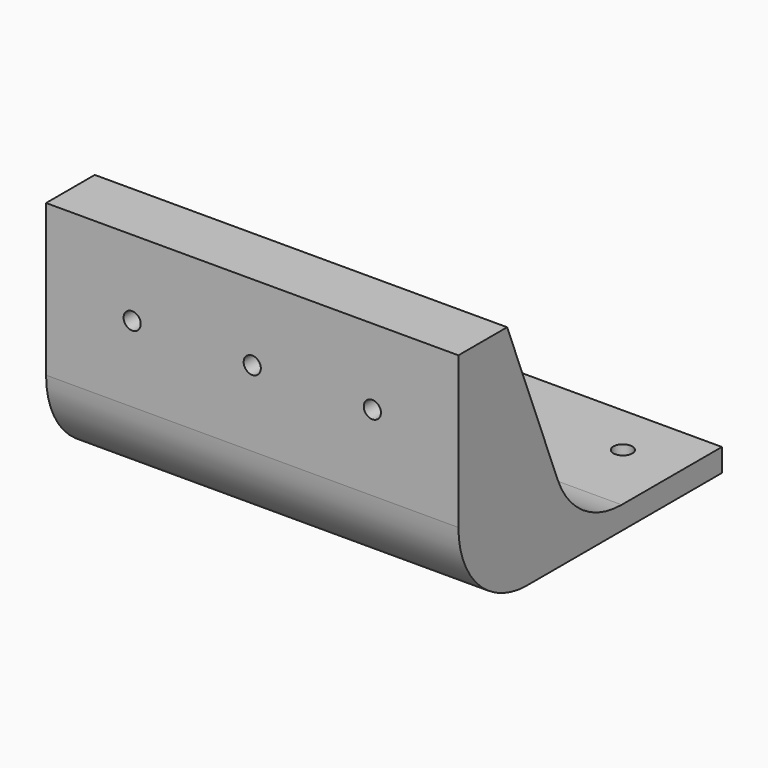
from build123d import *

# Parameters (mm, degrees)
F0_W     = 72
F0_H     = 45
F1_DEPTH = 4
F2_D     = 3.3
F2_DEPTH = 8
F2_TIP   = 0.9914200214
F4_DEPTH = 72
F5_R     = 15
F7_D     = 3
F7_DEPTH = 25
F7_TIP   = 0.9012909285


with BuildPart() as f1:
    # F0 (on Top) → F1 (new body)
    with BuildSketch(Plane.XY):
        Rectangle(F0_W, F0_H)
    extrude(amount=F1_DEPTH)

    # F2
    with Locations(Plane(origin=(0, 0, 0), x_dir=(1, 0, 0), z_dir=(0, 0, -1))):
        with Locations((-26, -13.3780119941), (0, -13.3780119941), (26, -13.3780119941)):
            Hole(F2_D / 2, depth=F2_DEPTH)
            with Locations((0, 0, -(F2_DEPTH + F2_TIP / 2))):  # 118° drill point
                Cone(0, F2_D / 2, F2_TIP, mode=Mode.SUBTRACT)

    # F3 (on face) → F4 (join)
    with BuildSketch(Plane.YZ.offset(36)):
        Polygon((-22.5, 4), (-9.5828315243, 4), (-24.3840366602, 41.4623506367), (-35.0105427206, 41.4623506367), (-35.0105427206, 0), (-22.5, 0), align=None)
    extrude(amount=-F4_DEPTH)

    # F5
    f5_edges = [f1.edges().sort_by_distance(p)[0] for p in [
        (0, -35.010543, 0),
        (0, -9.582832, 4),
    ]]
    fillet(f5_edges, radius=F5_R)

    # F7
    with Locations(Plane.XZ.offset(35.0105427206)):
        with Locations((-20.9683738649, 28.2311753184), (20.9683738649, 28.2311753184), (0, 28.2311753184)):
            Hole(F7_D / 2, depth=F7_DEPTH)
            with Locations((0, 0, -(F7_DEPTH + F7_TIP / 2))):  # 118° drill point
                Cone(0, F7_D / 2, F7_TIP, mode=Mode.SUBTRACT)


solid = f1.part
